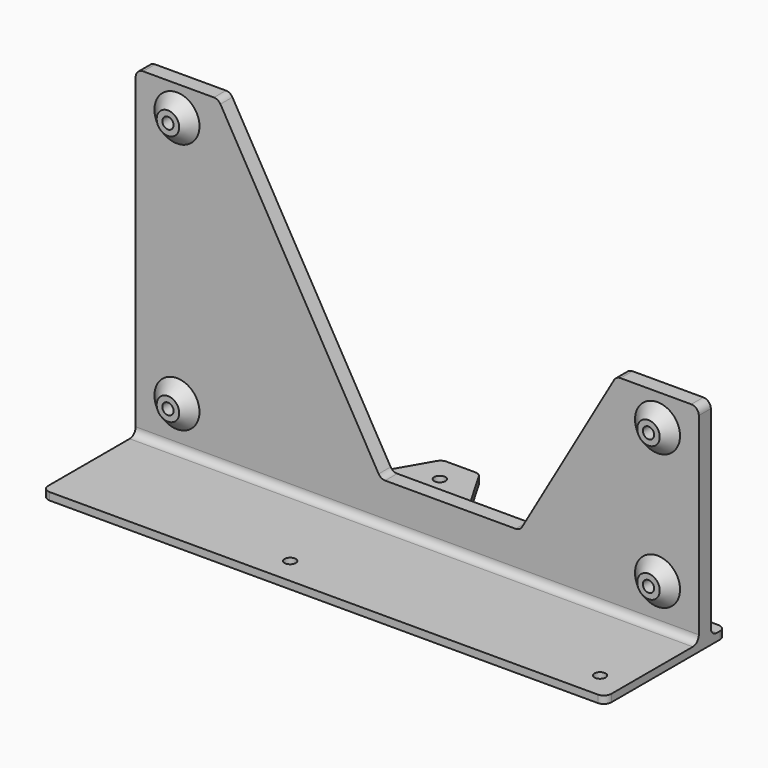
from build123d import *

# Parameters (mm, degrees)
F0_R          = 1.5
F0_W          = 150
F0_H          = 4
F0_H_2        = 31.13
F1_DEPTH      = 2
F2_DEPTH      = 88
F3_R          = 6
F3_R_2        = 1.5
F4_DEPTH      = 3
F4_TAPER      = 45
F5_DEPTH      = 31.131
F5_DEPTH_BACK = 31.131
F6_R          = 2


with BuildPart() as f1:
    # F0 (on Top) → F1 (new body)
    with BuildSketch(Plane.XY):
        Polygon((6.27, 55.26), (-3.73, 55.26), (-16.5067614572, 33.13), (-60.45, 33.13), (-60.45, 28.13), (89.55, 28.13), (89.55, 33.13), (19.0467614572, 33.13), align=None)
        with Locations((1.27, 48.26)):
            Circle(F0_R, mode=Mode.SUBTRACT)
        with Locations((14.55, 26.13)):
            Rectangle(F0_W, F0_H)
        with Locations((14.55, 8.565)):
            Rectangle(F0_W, F0_H_2)
        Circle(F0_R, mode=Mode.SUBTRACT)
        with Locations((82.55, 0)):
            Circle(F0_R, mode=Mode.SUBTRACT)
    extrude(amount=F1_DEPTH)

    # F0 (on Top) → F2 (join)
    with BuildSketch(Plane.XY):
        with Locations((14.55, 26.13)):
            Rectangle(F0_W, F0_H)
    extrude(amount=F2_DEPTH)

    # F3 (on face) → F4 (join)
    with BuildSketch(Plane.XZ.offset(-24.13)):
        with Locations((-49.45, 80)):
            Circle(F3_R)
        with Locations((-49.45, 80)):
            Circle(F3_R_2, mode=Mode.SUBTRACT)
        with Locations((-49.45, 13)):
            Circle(F3_R)
        with Locations((-49.45, 13)):
            Circle(F3_R_2, mode=Mode.SUBTRACT)
        with Locations((78.55, 13)):
            Circle(F3_R)
        with Locations((78.55, 13)):
            Circle(F3_R_2, mode=Mode.SUBTRACT)
        with Locations((78.55, 49)):
            Circle(F3_R)
        with Locations((78.55, 49)):
            Circle(F3_R_2, mode=Mode.SUBTRACT)
        with Locations((-49.45, 80)):
            Circle(F3_R_2)
        with Locations((-49.45, 13)):
            Circle(F3_R_2)
        with Locations((78.55, 13)):
            Circle(F3_R_2)
        with Locations((78.55, 49)):
            Circle(F3_R_2)
    extrude(amount=F4_DEPTH, taper=F4_TAPER)

    # F3 (on face) → F5 (cut, two sides)
    with BuildSketch(Plane.XZ.offset(-24.13)) as f5_sk:
        with Locations((-49.45, 13)):
            Circle(F3_R_2)
        with Locations((78.55, 13)):
            Circle(F3_R_2)
        with Locations((78.55, 49)):
            Circle(F3_R_2)
        with Locations((-49.45, 80)):
            Circle(F3_R_2)
        Polygon((89.55, 88), (-38.45, 88), (4.8512701892, 13), (41.9111145423, 13), (67.55, 57.4078522623), (89.55, 57.4078522623), align=None)
    extrude(amount=F5_DEPTH, mode=Mode.SUBTRACT)
    extrude(f5_sk.sketch, amount=-F5_DEPTH_BACK, mode=Mode.SUBTRACT)

    # F6
    f6_edges = [f1.edges().sort_by_distance(p)[0] for p in [
        (-60.45, 26.13, 88),
        (-38.45, 26.13, 88),
        (4.85127, 26.13, 13),
        (41.911115, 26.13, 13),
        (67.55, 26.13, 57.407852),
        (89.55, 26.13, 57.407852),
        (89.55, -7, 1),
        (89.55, 33.13, 1),
        (19.046761, 33.13, 1),
        (6.27, 55.26, 1),
        (-3.73, 55.26, 1),
        (-16.506761, 33.13, 1),
        (-60.45, 33.13, 1),
        (-60.45, -7, 1),
        (14.55, 24.13, 2),
        (14.55, 28.13, 2),
    ]]
    fillet(f6_edges, radius=F6_R)


solid = f1.part
